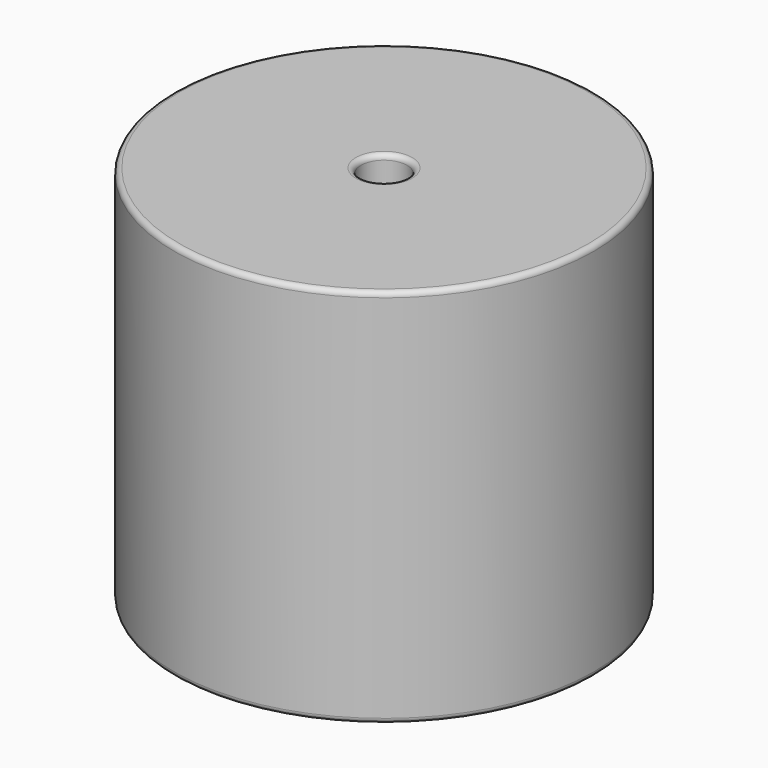
from build123d import *

# Parameters (mm, degrees)
SKETCH001_R       = 0.95
PAD001_DEPTH      = 18.415
PAD001_DEPTH_BACK = 3.5
SKETCH_R          = 20.32
SKETCH_R_2        = 2.225
PAD_DEPTH         = 36.83
FILLET_R          = 0.5


with BuildPart() as pad001:
    # Sketch001 → Pad001 (new body, two sides)
    with BuildSketch(Plane.XY.offset(0.5)) as pad001_sk:
        Circle(SKETCH001_R)
        with Locations((27.94, 0)):
            Circle(SKETCH001_R)
    extrude(amount=PAD001_DEPTH)
    extrude(pad001_sk.sketch, amount=-PAD001_DEPTH_BACK)


with BuildPart() as fillet_body:
    # Sketch → Pad (new body)
    with BuildSketch(Plane.XY.offset(0.1)):
        with Locations((13.97, 0)):
            Circle(SKETCH_R)
        with Locations((13.97, 0)):
            Circle(SKETCH_R_2, mode=Mode.SUBTRACT)
    extrude(amount=PAD_DEPTH)

    # Fillet
    fillet_edges = [fillet_body.edges().sort_by_distance(p)[0] for p in [
        (11.745, 0, 36.93),
        (-6.35, 0, 36.93),
        (-6.35, 0, 0.1),
    ]]
    fillet(fillet_edges, radius=FILLET_R)


solid = Compound([pad001.part, fillet_body.part])
